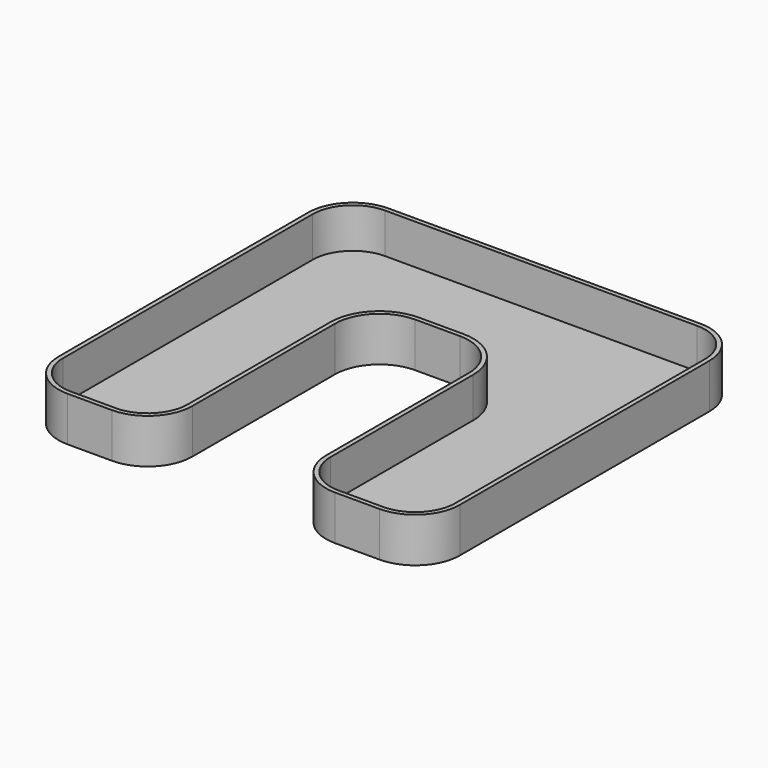
from build123d import *

# Parameters (mm, degrees)
F1_DEPTH = 10
F2_R     = 10
F3_T     = -1


with BuildPart() as f1:
    # F0 (on Top) → F1 (new body)
    with BuildSketch(Plane.XY):
        Polygon((35.284058, 50.538993), (-54.715942, 50.538993), (-54.715942, -39.461007), (-24.715942, -39.461007), (-24.715942, 20.538993), (5.284058, 20.538993), (5.284058, -39.461007), (35.284058, -39.461007), align=None)
    extrude(amount=F1_DEPTH)

    # F2
    f2_edges = [f1.edges().sort_by_distance(p)[0] for p in [
        (35.284058, 50.538993, 5),
        (35.284058, -39.461007, 5),
        (-24.715942, 20.538993, 5),
        (-24.715942, -39.461007, 5),
        (-54.715942, -39.461007, 5),
        (5.284058, -39.461007, 5),
        (5.284058, 20.538993, 5),
        (-54.715942, 50.538993, 5),
    ]]
    fillet(f2_edges, radius=F2_R)

    # F3
    f3_openings = [f1.faces().sort_by_distance(p)[0] for p in [
        (-9.715942, 49.2662, 10),
    ]]
    offset(amount=F3_T, openings=f3_openings)


solid = f1.part
